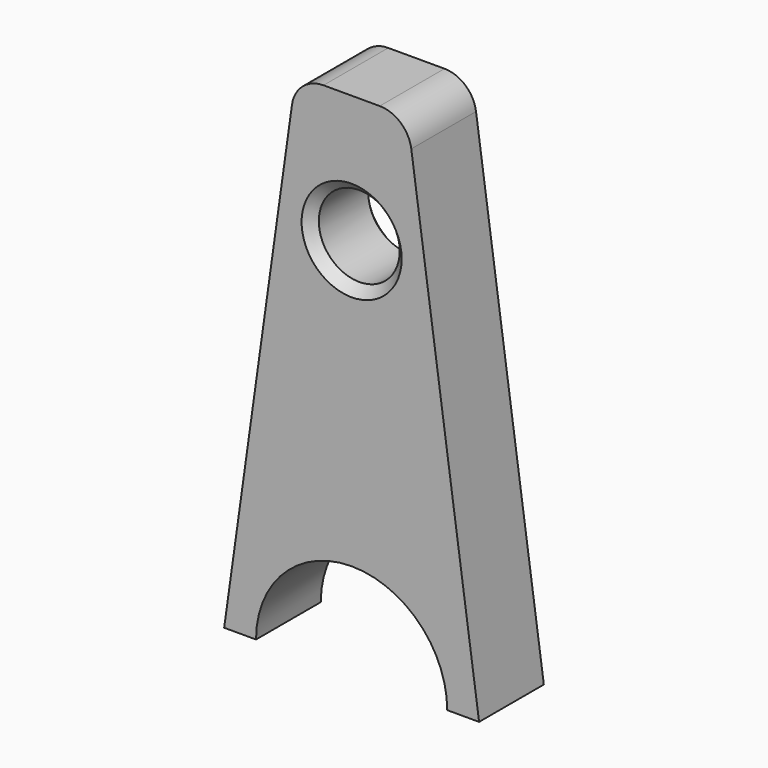
from build123d import *

# Parameters (mm, degrees)
F0_R     = 6.35
F1_DEPTH = 12.7
F2_SIZE  = 1.5


with BuildPart() as f1:
    # F0 (on Front) → F1 (new body)
    with BuildSketch(Plane.XZ):
        with BuildLine():
            Line((20, 0), (9.36164, 75.695866))
            ThreePointArc((9.36164, 75.695866), (7.690595, 78.773548), (4.4103, 80))
            Line((4.4103, 80), (-4.4103, 80))
            ThreePointArc((-4.4103, 80), (-7.690595, 78.773548), (-9.36164, 75.695866))
            Line((-9.36164, 75.695866), (-20, 0))
            Line((-20, 0), (-15, 0))
            ThreePointArc((-15, 0), (0, 15), (15, 0))
            Line((15, 0), (20, 0))
        make_face()
        with Locations((0, 60)):
            Circle(F0_R, mode=Mode.SUBTRACT)
    extrude(amount=F1_DEPTH)

    # F2
    f2_edges = [f1.edges().sort_by_distance(p)[0] for p in [
        (-6.35, -12.7, 60),
        (-6.35, 0, 60),
    ]]
    chamfer(f2_edges, length=F2_SIZE)


solid = f1.part
